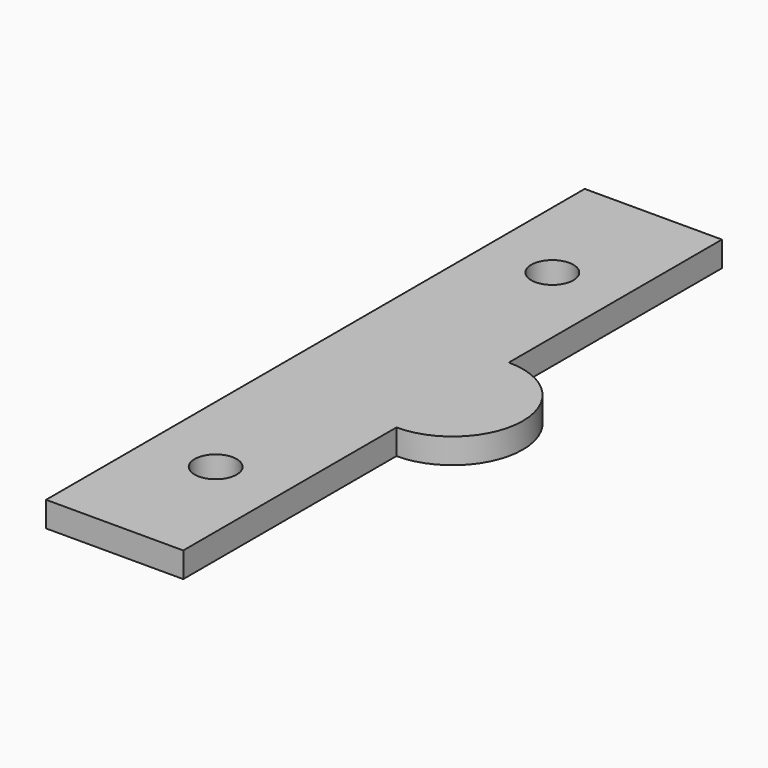
from build123d import *

# Parameters (mm, degrees)
PAD_DEPTH    = 3
SKETCH001_R  = 2.5
POCKET_DEPTH = 5


with BuildPart() as part:
    # Sketch → Pad (new body)
    with BuildSketch(Plane.XY):
        with BuildLine():
            Line((-8.15, 40), (-8.15, -40))
            Line((-8.15, -40), (8.15, -40))
            Line((8.15, -40), (8.15, -8.35))
            ThreePointArc((8.15, -8.35), (16.5, 0), (8.15, 8.35))
            Line((8.15, 8.35), (8.15, 40))
            Line((8.15, 40), (-8.15, 40))
        make_face()
    extrude(amount=PAD_DEPTH)

    # Sketch001 (on Face8 of Pad) → Pocket (cut)
    with BuildSketch(Plane.XY.offset(3)):
        with Locations((0, 25)):
            Circle(SKETCH001_R)
        with Locations((0, -25)):
            Circle(SKETCH001_R)
    extrude(amount=-POCKET_DEPTH, mode=Mode.SUBTRACT)


solid = part.part
